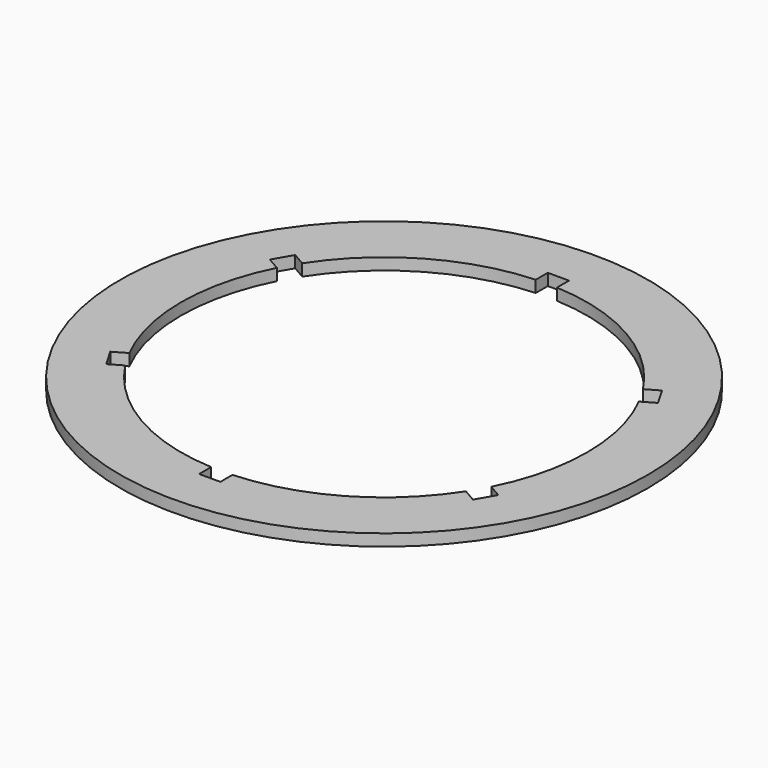
from build123d import *

# Parameters (mm, degrees)
F0_R     = 45
F1_DEPTH = 2


with BuildPart() as f1:
    # F0 (on Top) → F1 (new body)
    with BuildSketch(Plane.XY):
        Circle(F0_R)
        with BuildLine():
            Line((-1.81, 37.15), (1.81, 37.15))
            Line((1.81, 37.15), (1.81, 34.582666))
            ThreePointArc((1.81, 34.582666), (17.315, 29.99046), (29.044467, 18.858839))
            Line((29.044467, 18.858839), (31.267844, 20.142506))
            Line((31.267844, 20.142506), (33.077844, 17.007494))
            Line((33.077844, 17.007494), (30.854467, 15.723827))
            ThreePointArc((30.854467, 15.723827), (34.63, 0), (30.854467, -15.723827))
            Line((30.854467, -15.723827), (33.077844, -17.007494))
            Line((33.077844, -17.007494), (31.267844, -20.142506))
            Line((31.267844, -20.142506), (29.044467, -18.858839))
            ThreePointArc((29.044467, -18.858839), (17.315, -29.99046), (1.81, -34.582666))
            Line((1.81, -34.582666), (1.81, -37.15))
            Line((1.81, -37.15), (-1.81, -37.15))
            Line((-1.81, -37.15), (-1.81, -34.582666))
            ThreePointArc((-1.81, -34.582666), (-17.315, -29.99046), (-29.044467, -18.858839))
            Line((-29.044467, -18.858839), (-31.267844, -20.142506))
            Line((-31.267844, -20.142506), (-33.077844, -17.007494))
            Line((-33.077844, -17.007494), (-30.854467, -15.723827))
            ThreePointArc((-30.854467, -15.723827), (-34.63, 0), (-30.854467, 15.723827))
            Line((-30.854467, 15.723827), (-33.077844, 17.007494))
            Line((-33.077844, 17.007494), (-31.267844, 20.142506))
            Line((-31.267844, 20.142506), (-29.044467, 18.858839))
            ThreePointArc((-29.044467, 18.858839), (-17.315, 29.99046), (-1.81, 34.582666))
            Line((-1.81, 34.582666), (-1.81, 37.15))
        make_face(mode=Mode.SUBTRACT)
    extrude(amount=F1_DEPTH)


solid = f1.part
